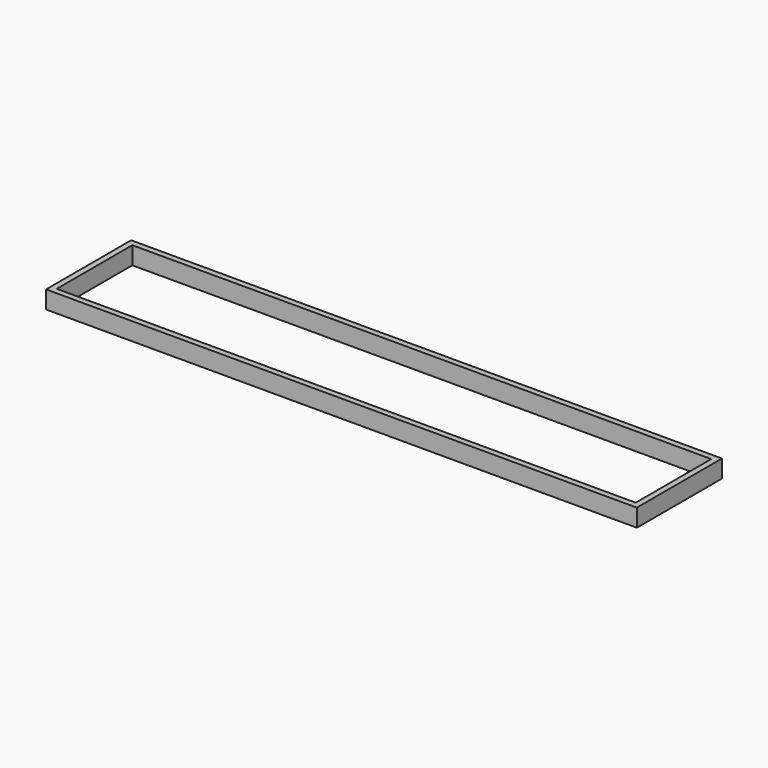
from build123d import *

# Parameters (mm, degrees)
F0_W     = 50
F0_H     = 800
F1_DEPTH = 150


with BuildPart() as f1:
    # F0 (on Top) → F1 (new body)
    with BuildSketch(Plane.XY):
        Polygon((5000, 0), (0, 0), (0, -50), (50, -50), (4950, -50), (5000, -50), align=None)
        with Locations((25, -450)):
            Rectangle(F0_W, F0_H)
        Polygon((50, -850), (0, -850), (0, -900), (5000, -900), (5000, -850), (4950, -850), align=None)
        Polygon((5000, -850), (5000, -50), (4950, -50), (4950, -450), (4950, -500), (4950, -850), align=None)
    extrude(amount=F1_DEPTH)


solid = f1.part
